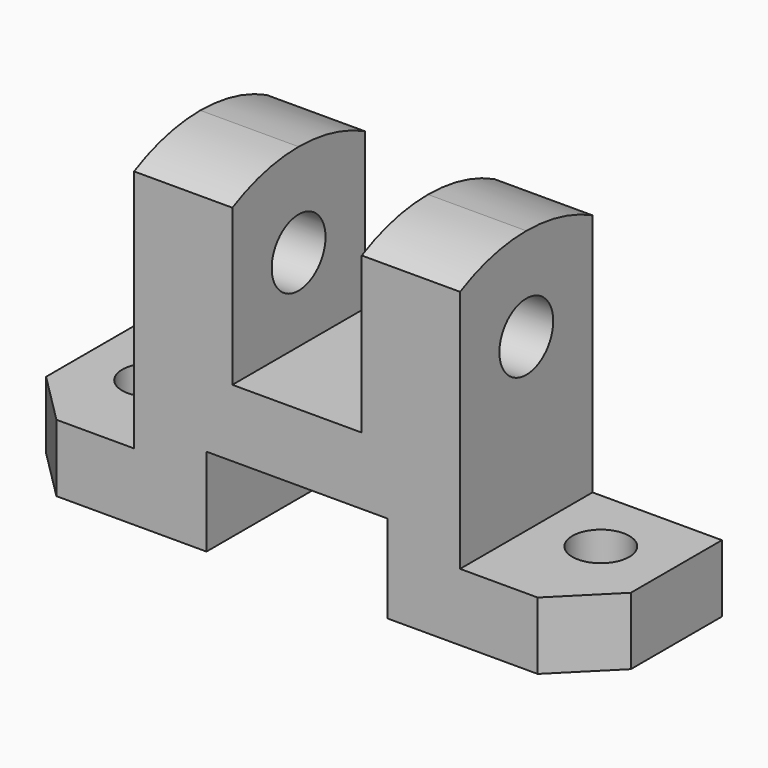
from build123d import *

# Parameters (mm, degrees)
F0_W     = 113
F0_H     = 64
F1_DEPTH = 16
F2_W     = 25
F2_H     = 51
F2_H_2   = 34
F2_W_2   = 35
F2_H_3   = 17
F3_DEPTH = 32.001
F4_R     = 6.5
F5_DEPTH = 88.001
F7_R     = 5.5
F8_DEPTH = 64.001
F9_SIZE  = 10


with BuildPart() as f1:
    # F0 (on Front) → F1 (new body, symmetric)
    with BuildSketch(Plane.XZ):
        with Locations((0, 32)):
            Rectangle(F0_W, F0_H)
    extrude(amount=F1_DEPTH, both=True)

    # F2 (on face) → F3 (cut, through all)
    with BuildSketch(Plane.XZ.offset(16)):
        with Locations((-44, 38.5)):
            Rectangle(F2_W, F2_H)
        with Locations((44, 38.5)):
            Rectangle(F2_W, F2_H)
        with Locations((0, 47)):
            Rectangle(F2_W, F2_H_2)
        with Locations((0, 8.5)):
            Rectangle(F2_W_2, F2_H_3)
    extrude(amount=-F3_DEPTH, mode=Mode.SUBTRACT)

    # F4 (on face) → F5 (cut, through all)
    with BuildSketch(Plane.YZ.offset(31.5)):
        with BuildLine():
            ThreePointArc((-16, 60.1287648325), (-8.2308332161, 63.0184271325), (0, 64))
            Line((0, 64), (-16, 64))
            Line((-16, 64), (-16, 60.1287648325))
        make_face()
        with BuildLine():
            ThreePointArc((0, 64), (8.230833216, 63.0184271325), (16, 60.1287648325))
            Line((16, 60.1287648325), (16, 64))
            Line((16, 64), (0, 64))
        make_face()
        with Locations((0, 46)):
            Circle(F4_R)
    extrude(amount=-F5_DEPTH, mode=Mode.SUBTRACT)

    # F7 (on offset) → F8 (cut, through all)
    with BuildSketch(Plane.XY.offset(64)):
        with Locations((-43.5, 3)):
            Circle(F7_R)
        with Locations((43.5, 3)):
            Circle(F7_R)
    extrude(amount=-F8_DEPTH, mode=Mode.SUBTRACT)

    # F9
    f9_edges = [f1.edges().sort_by_distance(p)[0] for p in [
        (56.5, -16, 6.5),
        (-56.5, -16, 6.5),
    ]]
    chamfer(f9_edges, length=F9_SIZE)


solid = f1.part
